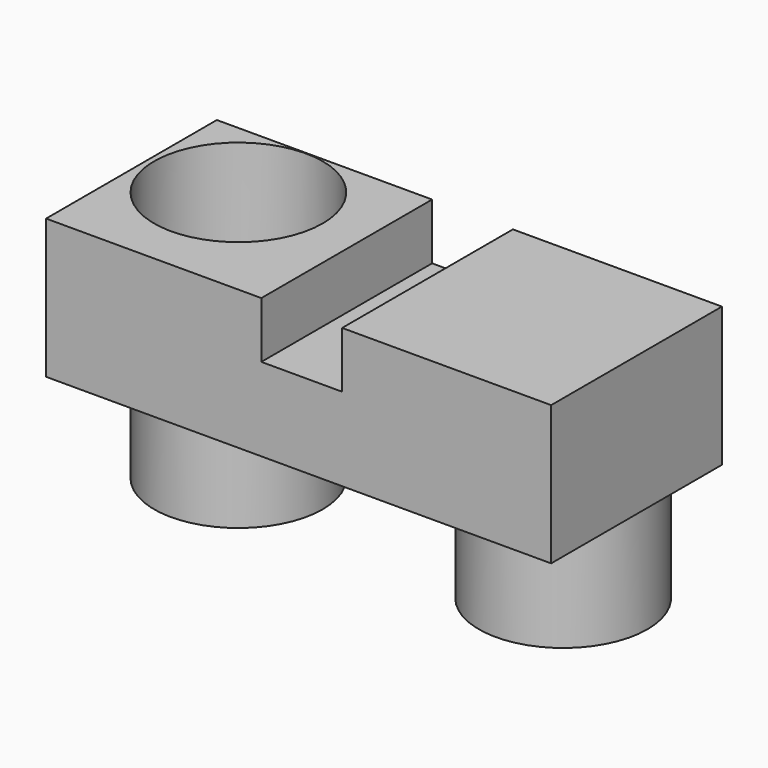
from build123d import *

# Parameters (mm, degrees)
F0_R     = 19.05
F1_DEPTH = 25.4
F2_W     = 114.18498
F2_H     = 48.26
F2_R     = 19.05
F3_DEPTH = 31.496
F4_W     = 18.267938
F4_H     = 48.26
F5_DEPTH = 12.7


with BuildPart() as f1:
    # F0 (on Top) → F1 (new body)
    with BuildSketch(Plane.XY):
        with Locations((-38.32242, 9.956002)):
            Circle(F0_R)
        with Locations((35.102775, 9.956002)):
            Circle(F0_R)
    extrude(amount=F1_DEPTH)


with BuildPart() as f3:
    # F2 (on face) → F3 (new body)
    with BuildSketch(Plane.XY.offset(25.4)):
        with Locations((-1.481183, 5.054495)):
            Rectangle(F2_W, F2_H)
        with Locations((-38.32242, 9.956002)):
            Circle(F2_R, mode=Mode.SUBTRACT)
    extrude(amount=F3_DEPTH)

    # F4 (on face) → F5 (cut)
    with BuildSketch(Plane.XY.offset(56.896)):
        with Locations((-0.777131, 5.054495)):
            Rectangle(F4_W, F4_H)
    extrude(amount=-F5_DEPTH, mode=Mode.SUBTRACT)


solid = Compound([f1.part, f3.part])
